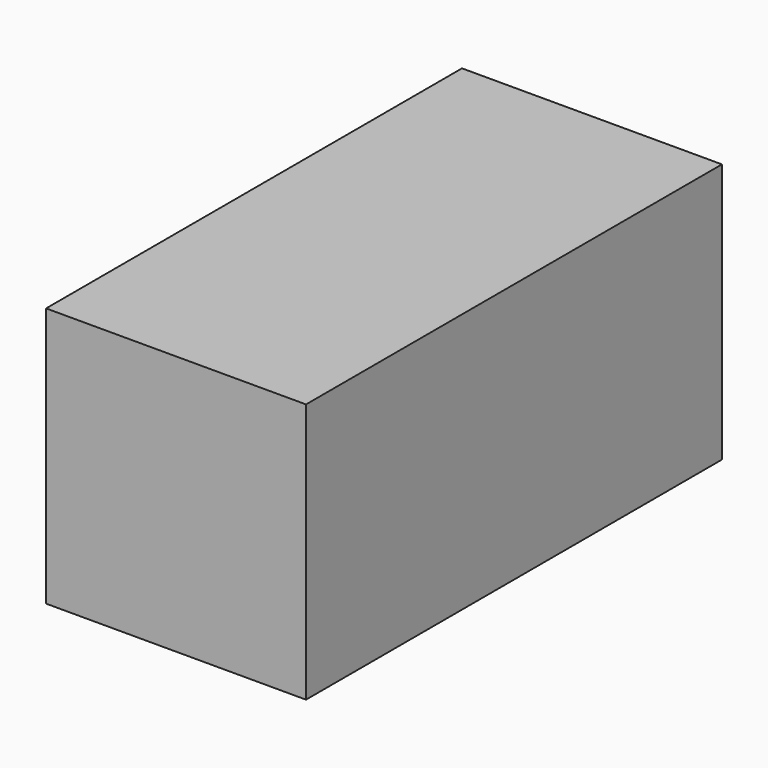
from build123d import *

# Parameters (mm, degrees)
SKETCH_W  = 25
SKETCH_H  = 50
PAD_DEPTH = 25


with BuildPart() as part:
    # Sketch → Pad (new body)
    with BuildSketch(Plane.XY):
        with Locations((12.5, 25)):
            Rectangle(SKETCH_W, SKETCH_H)
    extrude(amount=PAD_DEPTH)


solid = part.part
